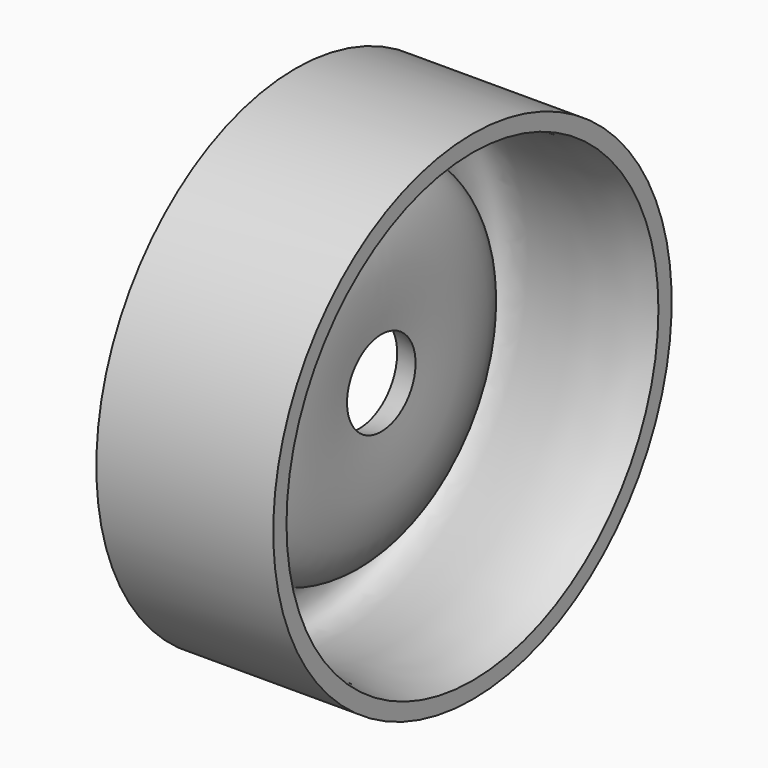
from build123d import *


with BuildPart() as f1:
    # F0 (on Front) → F1 (revolve)
    with BuildSketch(Plane.XZ):
        with BuildLine():
            add(Edge.make_bspline(
                [(-9.4182416797, 34.8065346479), (-21.7028986663, 32.0766083896), (-35.391313091, 40.2731956757), (-35.6845751024, 27.0800897744), (-25.7196582586, 27.6865274709), (-22.3051663088, 17.2523681292), (-22.8034570484, 10.1387060879), (-23.0678617954, 6.4153252169)],
                knots=[0, 0, 0, 0, 0.2986678082, 0.4464047647, 0.6136748718, 0.798420812, 1, 1, 1, 1], degree=3))
            Line((-9.4182416797, 34.8065346479), (-9.4182416797, 37.2873097658))
            Line((-9.4182416797, 37.2873097658), (-35.9092280269, 37.2873097658))
            Line((-35.9092280269, 37.2873097658), (-37.8579199314, 30.6617524475))
            Line((-37.8579199314, 30.6617524475), (-26.3606328517, 7.0825689472))
            Line((-26.3606328517, 7.0825689472), (-23.0678617954, 6.4153252169))
        make_face()
    revolve(axis=Axis((3.6853924394, 0, 0), (1, 0, 0)))


solid = f1.part
